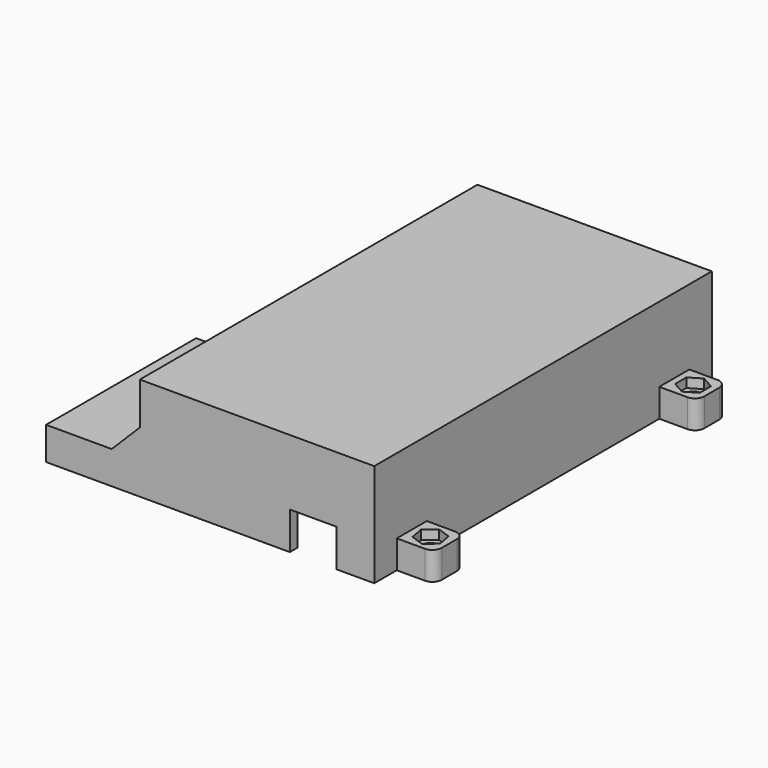
from build123d import *

# Parameters (mm, degrees)
SKETCH_W        = 25
SKETCH_H        = 45
PAD_DEPTH       = 11
SKETCH001_W     = 20
SKETCH001_H     = 3.5
PAD001_DEPTH    = 10
SKETCH002_R     = 1.75
SKETCH002_R_2   = 1.311362
POCKET_DEPTH    = 12
SKETCH003_W     = 11
SKETCH003_H     = 5
SKETCH003_H_2   = 6
POCKET001_DEPTH = 2
SKETCH005_W     = 23
SKETCH005_H     = 43
POCKET002_DEPTH = 10
CHAMFER_SIZE    = 3
CHAMFER001_SIZE = 3
SKETCH006_W     = 5
SKETCH006_H     = 4
POCKET003_DEPTH = 1
SKETCH007_R     = 0.8
POCKET004_DEPTH = 5
POCKET005_DEPTH = 2
SKETCH009_W     = 4
SKETCH009_H     = 4
PAD002_DEPTH    = 3
SKETCH010_R     = 0.8
POCKET006_DEPTH = 5
POCKET007_DEPTH = 1
SKETCH012_R     = 0.8
POCKET008_DEPTH = 5
POCKET009_DEPTH = 1
SKETCH014_R     = 0.8
POCKET010_DEPTH = 5
POCKET011_DEPTH = 1
FILLET_R        = 1
FILLET001_R     = 1
FILLET002_R     = 1
FILLET003_R     = 1
FILLET004_R     = 1
FILLET005_R     = 1


with BuildPart() as pad:
    # Sketch → Pad (new body)
    with BuildSketch(Plane.XY):
        with Locations((-12.5, 22.5)):
            Rectangle(SKETCH_W, SKETCH_H)
    extrude(amount=PAD_DEPTH)


with BuildPart() as pad001:
    # Pad001 base: copy of Pad
    add(pad.part)

    # Sketch001 (on Face2 of Pad) → Pad001 (new body)
    with BuildSketch(Plane(origin=(-25, 0, 0), x_dir=(0, -1, 0), z_dir=(-1, 0, 0))):
        with Locations((-10, 9.25)):
            Rectangle(SKETCH001_W, SKETCH001_H)
    extrude(amount=PAD001_DEPTH)


with BuildPart() as fillet005:
    # Fusion base: copy of Pad
    add(pad.part)

    # Fusion: union Pad001
    add(pad001.part)

    # Sketch002 (on Face1 of Fusion) → Pocket (cut)
    with BuildSketch(Plane(origin=(-35, 0, 0), x_dir=(0, -1, 0), z_dir=(-1, 0, 0))):
        with Locations((-5, 11)):
            Circle(SKETCH002_R)
        with Locations((-16, 11)):
            Circle(SKETCH002_R_2)
    extrude(amount=-POCKET_DEPTH, mode=Mode.SUBTRACT)

    # Sketch003 (on Face6 of Pocket) → Pocket001 (cut)
    with BuildSketch(Plane.XY.offset(11)):
        with Locations((-28.5, 16)):
            Rectangle(SKETCH003_W, SKETCH003_H)
        with Locations((-28.5, 5)):
            Rectangle(SKETCH003_W, SKETCH003_H_2)
    extrude(amount=-POCKET001_DEPTH, mode=Mode.SUBTRACT)

    # Sketch005 (on Face10 of Pocket001) → Pocket002 (cut)
    with BuildSketch(Plane.XY.offset(11)):
        with Locations((-12.5, 22.5)):
            Rectangle(SKETCH005_W, SKETCH005_H)
    extrude(amount=-POCKET002_DEPTH, mode=Mode.SUBTRACT)

    # Chamfer
    chamfer_edges = [fillet005.edges().sort_by_distance(p)[0] for p in [
        (-25, 10, 7.5),
    ]]
    chamfer(chamfer_edges, length=CHAMFER_SIZE)

    # Chamfer001
    chamfer001_edges = [fillet005.edges().sort_by_distance(p)[0] for p in [
        (-25, 20, 9.25),
        (-25, 20, 6),
    ]]
    chamfer(chamfer001_edges, length=CHAMFER001_SIZE)

    # Sketch006 (on Face12 of Chamfer001) → Pocket003 (cut)
    with BuildSketch(Plane.XZ):
        with Locations((-6.5, 9)):
            Rectangle(SKETCH006_W, SKETCH006_H)
    extrude(amount=-POCKET003_DEPTH, mode=Mode.SUBTRACT)

    # Sketch007 (on Face16 of Pocket003) → Pocket004 (cut)
    with BuildSketch(Plane.XY.offset(11)):
        with Locations((-30, 10.5)):
            Circle(SKETCH007_R)
    extrude(amount=-POCKET004_DEPTH, mode=Mode.SUBTRACT)

    # Sketch008 (on Face3 of Pocket004) → Pocket005 (cut)
    with BuildSketch(Plane(origin=(0, 0, 7.5), x_dir=(1, 0, 0), z_dir=(0, 0, -1))):
        Polygon((-29.047812, -12), (-28.224868, -10.425381), (-29.177056, -8.925381), (-30.952188, -9), (-31.775132, -10.574619), (-30.822944, -12.074619), align=None)
    extrude(amount=-POCKET005_DEPTH, mode=Mode.SUBTRACT)

    # Sketch009 (on Face15 of Pocket005) → Pad002 (new body)
    with BuildSketch(Plane.XY.offset(11)):
        with Locations((-27, 40)):
            Rectangle(SKETCH009_W, SKETCH009_H)
        with Locations((2, 40)):
            Rectangle(SKETCH009_W, SKETCH009_H)
        with Locations((2, 5)):
            Rectangle(SKETCH009_W, SKETCH009_H)
    extrude(amount=-PAD002_DEPTH)

    # Sketch010 (on Face33 of Pad002) → Pocket006 (cut)
    with BuildSketch(Plane.XY.offset(11)):
        with Locations((-27, 40)):
            Circle(SKETCH010_R)
    extrude(amount=-POCKET006_DEPTH, mode=Mode.SUBTRACT)

    # Sketch011 (on Face20 of Pocket006) → Pocket007 (cut)
    with BuildSketch(Plane(origin=(0, 0, 8), x_dir=(1, 0, 0), z_dir=(0, 0, -1))):
        Polygon((-25.520394, -40.24651), (-26.046714, -38.841879), (-27.526319, -38.595369), (-28.479606, -39.75349), (-27.953286, -41.158121), (-26.473681, -41.404631), align=None)
    extrude(amount=-POCKET007_DEPTH, mode=Mode.SUBTRACT)

    # Sketch012 (on Face37 of Pocket007) → Pocket008 (cut)
    with BuildSketch(Plane.XY.offset(11)):
        with Locations((2, 40)):
            Circle(SKETCH012_R)
    extrude(amount=-POCKET008_DEPTH, mode=Mode.SUBTRACT)

    # Sketch013 (on Face59 of Pocket008) → Pocket009 (cut)
    with BuildSketch(Plane(origin=(0, 0, 8), x_dir=(1, 0, 0), z_dir=(0, 0, -1))):
        Polygon((3.289533, -40.766227), (3.308339, -39.266345), (2.018806, -38.500118), (0.710467, -39.233773), (0.691661, -40.733655), (1.981194, -41.499882), align=None)
    extrude(amount=-POCKET009_DEPTH, mode=Mode.SUBTRACT)

    # Sketch014 (on Face40 of Pocket009) → Pocket010 (cut)
    with BuildSketch(Plane.XY.offset(11)):
        with Locations((2, 5)):
            Circle(SKETCH014_R)
    extrude(amount=-POCKET010_DEPTH, mode=Mode.SUBTRACT)

    # Sketch015 (on Face56 of Pocket010) → Pocket011 (cut)
    with BuildSketch(Plane(origin=(0, 0, 8), x_dir=(1, 0, 0), z_dir=(0, 0, -1))):
        Polygon((3.133484, -5.982453), (3.417571, -4.5096), (2.284087, -3.527147), (0.866516, -4.017547), (0.582429, -5.4904), (1.715913, -6.472853), align=None)
    extrude(amount=-POCKET011_DEPTH, mode=Mode.SUBTRACT)

    # Fillet
    fillet_edges = [fillet005.edges().sort_by_distance(p)[0] for p in [
        (-29, 38, 9.5),
    ]]
    fillet(fillet_edges, radius=FILLET_R)

    # Fillet001
    fillet001_edges = [fillet005.edges().sort_by_distance(p)[0] for p in [
        (-29, 42, 9.5),
    ]]
    fillet(fillet001_edges, radius=FILLET001_R)

    # Fillet002
    fillet002_edges = [fillet005.edges().sort_by_distance(p)[0] for p in [
        (4, 42, 9.5),
    ]]
    fillet(fillet002_edges, radius=FILLET002_R)

    # Fillet003
    fillet003_edges = [fillet005.edges().sort_by_distance(p)[0] for p in [
        (4, 38, 9.5),
    ]]
    fillet(fillet003_edges, radius=FILLET003_R)

    # Fillet004
    fillet004_edges = [fillet005.edges().sort_by_distance(p)[0] for p in [
        (4, 7, 9.5),
    ]]
    fillet(fillet004_edges, radius=FILLET004_R)

    # Fillet005
    fillet005_edges = [fillet005.edges().sort_by_distance(p)[0] for p in [
        (4, 3, 9.5),
    ]]
    fillet(fillet005_edges, radius=FILLET005_R)


with BuildPart() as part_mirroring:
    # Part__Mirroring: instance of Fillet005
    add(fillet005.part.mirror(Plane(origin=(0, 0, 20), x_dir=(0, 1, 0), z_dir=(0, 0, 1))))


solid = part_mirroring.part
